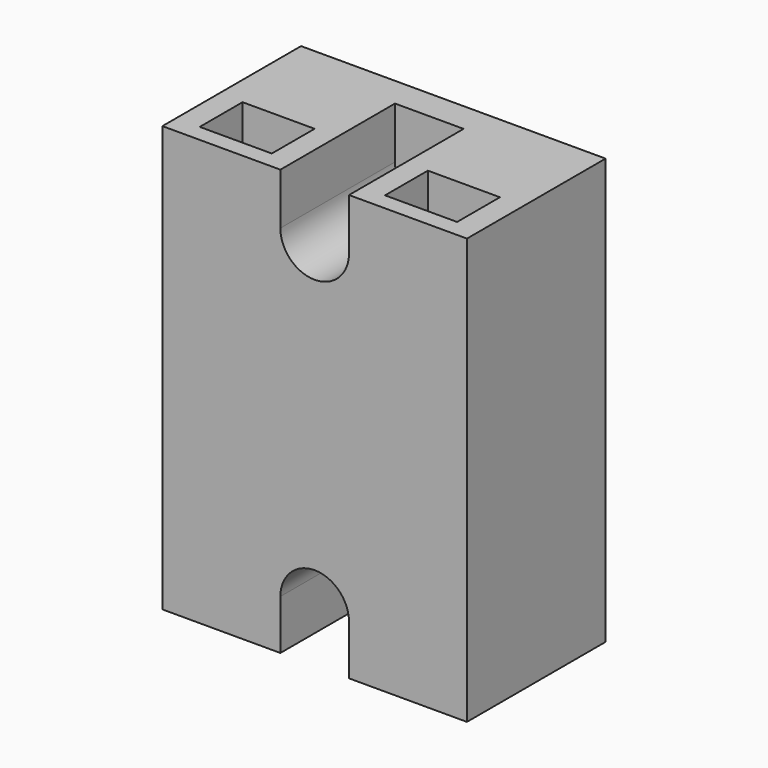
from build123d import *

# Parameters (mm, degrees)
F0_W     = 45.085
F0_H     = 62.992
F1_DEPTH = 25.654
F2_R     = 2.286
F3_DEPTH = 35.306
F5_DEPTH = 21.209
F6_W     = 10.668
F6_H     = 7.9248
F7_DEPTH = 11.43
F8_W     = 10.668
F8_H     = 7.9248
F9_DEPTH = 11.43


with BuildPart() as f1:
    # F0 (on Front) → F1 (new body)
    with BuildSketch(Plane.XZ):
        Rectangle(F0_W, F0_H)
    extrude(amount=F1_DEPTH)

    # F2 (on face) → F3 (cut)
    with BuildSketch(Plane.XZ.offset(25.654)):
        with Locations((0, 23.876)):
            Circle(F2_R)
        with BuildLine():
            Line((-2.2225, -22.7965), (-2.2225, -25.4635))
            ThreePointArc((-2.2225, -25.4635), (0, -27.686), (2.2225, -25.4635))
            Line((2.2225, -25.4635), (2.2225, -22.7965))
            ThreePointArc((2.2225, -22.7965), (0, -20.574), (-2.2225, -22.7965))
        make_face()
    extrude(amount=-F3_DEPTH, mode=Mode.SUBTRACT)

    # F4 (on face) → F5 (cut)
    with BuildSketch(Plane.XZ.offset(25.654)):
        with BuildLine():
            Line((-5.08, 34.951579), (-5.08, 23.876))
            ThreePointArc((-5.08, 23.876), (0, 18.796), (5.08, 23.876))
            Line((5.08, 23.876), (5.08, 34.951579))
            Line((5.08, 34.951579), (-5.08, 34.951579))
        make_face()
        with BuildLine():
            Line((5.08, -34.4517), (5.08, -24.13))
            ThreePointArc((5.08, -24.13), (0, -19.05), (-5.08, -24.13))
            Line((-5.08, -24.13), (-5.08, -34.4517))
            Line((-5.08, -34.4517), (5.08, -34.4517))
        make_face()
    extrude(amount=-F5_DEPTH, mode=Mode.SUBTRACT)

    # F6 (on face) → F7 (cut)
    with BuildSketch(Plane(origin=(0, 0, -31.496), x_dir=(1, 0, 0), z_dir=(0, 0, -1))):
        with Locations((-13.716, 19.1516)):
            Rectangle(F6_W, F6_H)
        with Locations((13.716, 19.1516)):
            Rectangle(F6_W, F6_H)
    extrude(amount=-F7_DEPTH, mode=Mode.SUBTRACT)

    # F8 (on face) → F9 (cut)
    with BuildSketch(Plane.XY.offset(31.496)):
        with Locations((13.716, -19.1516)):
            Rectangle(F8_W, F8_H)
        with Locations((-13.716, -19.1516)):
            Rectangle(F8_W, F8_H)
    extrude(amount=-F9_DEPTH, mode=Mode.SUBTRACT)


solid = f1.part
